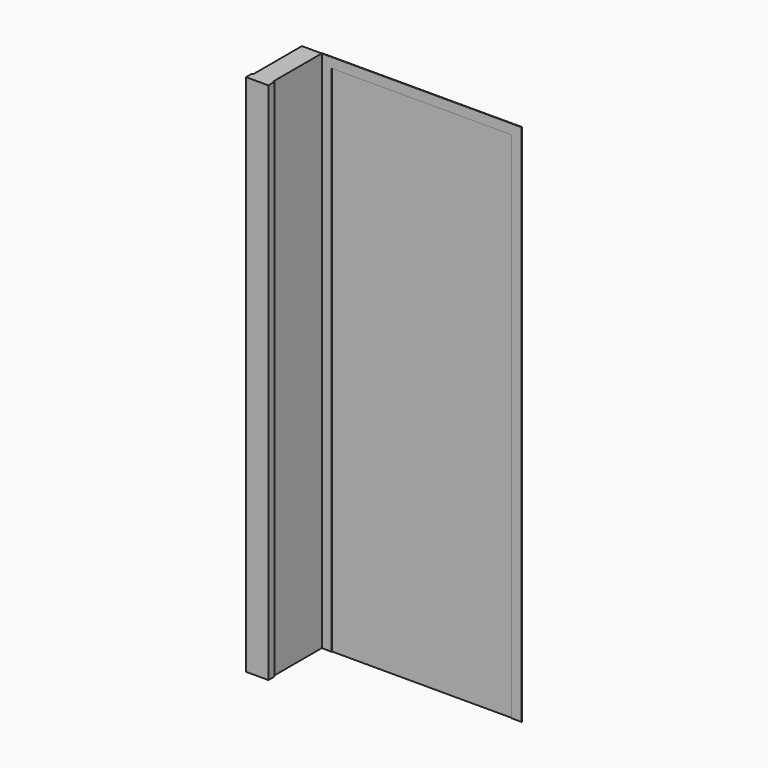
from build123d import *

# Parameters (mm, degrees)
F0_W     = 725
F0_H     = 2070
F1_DEPTH = 30
F3_DEPTH = 2
F4_W     = 80
F4_H     = 2110
F5_DEPTH = 245
F6_W     = 90
F6_H     = 30
F7_DEPTH = 2110


with BuildPart() as f1:
    # F0 (on Front) → F1 (new body)
    with BuildSketch(Plane.XZ):
        with Locations((-362.5, 1035)):
            Rectangle(F0_W, F0_H)
    extrude(amount=F1_DEPTH)


with BuildPart() as f3:
    # F2 (on face) → F3 (new body)
    with BuildSketch(Plane.XZ.offset(30)):
        Polygon((-765, 0), (-725, 0), (-725, 2070), (0, 2070), (0, 0), (40, 0), (40, 2110), (0, 2110), (-725, 2110), (-765, 2110), align=None)
    extrude(amount=F3_DEPTH)


with BuildPart() as f5:
    # F4 (on face) → F5 (new body)
    with BuildSketch(Plane.XZ.offset(32)):
        with Locations((-805, 1055)):
            Rectangle(F4_W, F4_H)
    extrude(amount=F5_DEPTH)

    # F6 (on face) → F7 (join)
    with BuildSketch(Plane.XY.offset(2110)):
        with Locations((-805, -292)):
            Rectangle(F6_W, F6_H)
    extrude(amount=-F7_DEPTH)


solid = Compound([f1.part, f3.part, f5.part])
